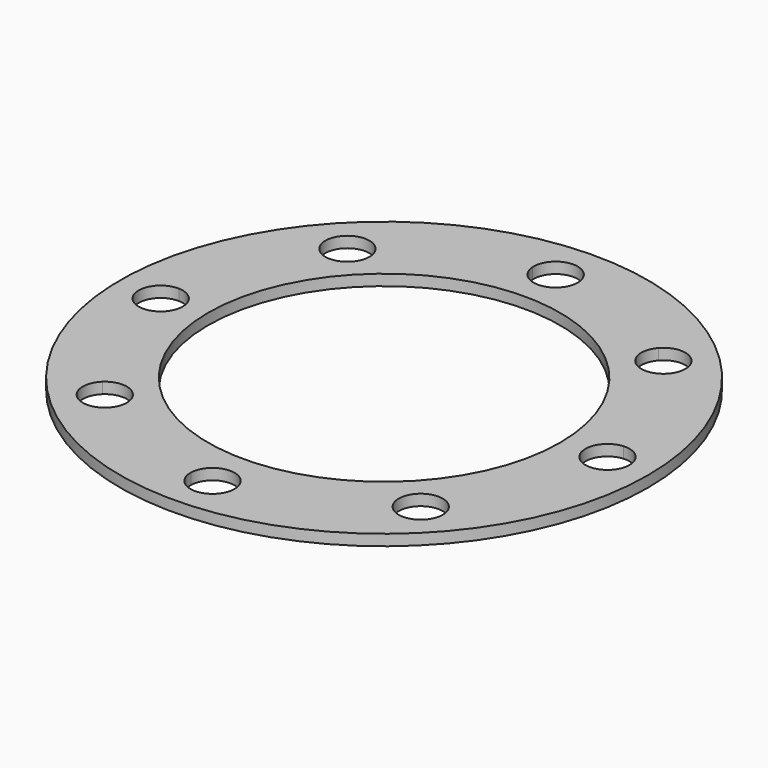
from build123d import *

# Parameters (mm, degrees)
F0_R     = 120
F1_DEPTH = 5
F0_R_2   = 80
F2_DEPTH = 5


with BuildPart() as f1:
    # F0 (on Top) → F1 (new body)
    with BuildSketch(Plane.XY):
        Circle(F0_R)
        with BuildLine():
            ThreePointArc((76.146291, 64.820848), (91.609258, 40.096681), (99.281886, 11.962742))
            ThreePointArc((99.281886, 11.962742), (106.799943, 9.30097), (109.980254, 1.987158))
            ThreePointArc((109.980254, 1.987158), (106.943933, -5.189692), (99.67882, -8.008298))
            ThreePointArc((99.67882, -8.008298), (93.130163, -36.424892), (78.661831, -61.743959))
            ThreePointArc((78.661831, -61.743959), (81.201294, -65.144284), (82.101848, -69.291583))
            ThreePointArc((82.101848, -69.291583), (75.788988, -78.587012), (64.820848, -76.146291))
            ThreePointArc((64.820848, -76.146291), (40.096681, -91.609258), (11.962742, -99.281886))
            ThreePointArc((11.962742, -99.281886), (11.981052, -99.630856), (11.987158, -99.980254))
            ThreePointArc((11.987158, -99.980254), (1.836424, -109.979118), (-8.008298, -99.67882))
            ThreePointArc((-8.008298, -99.67882), (-36.424892, -93.130163), (-61.743959, -78.661831))
            ThreePointArc((-61.743959, -78.661831), (-76.220741, -79.312033), (-76.146291, -64.820848))
            ThreePointArc((-76.146291, -64.820848), (-91.609258, -40.096681), (-99.281886, -11.962742))
            ThreePointArc((-99.281886, -11.962742), (-109.978279, -2.185874), (-99.67882, 8.008298))
            ThreePointArc((-99.67882, 8.008298), (-93.130163, 36.424892), (-78.661831, 61.743959))
            ThreePointArc((-78.661831, 61.743959), (-79.312033, 76.220741), (-64.820848, 76.146291))
            ThreePointArc((-64.820848, 76.146291), (-40.096681, 91.609258), (-11.962742, 99.281886))
            ThreePointArc((-11.962742, 99.281886), (-2.336555, 109.974148), (8.012842, 99.980254))
            ThreePointArc((8.012842, 99.980254), (8.011706, 99.82952), (8.008298, 99.67882))
            ThreePointArc((8.008298, 99.67882), (36.424892, 93.130163), (61.743959, 78.661831))
            ThreePointArc((61.743959, 78.661831), (72.793279, 81.468711), (79.291583, 72.101848))
            ThreePointArc((79.291583, 72.101848), (78.471645, 68.136189), (76.146291, 64.820848))
        make_face(mode=Mode.SUBTRACT)
    extrude(amount=F1_DEPTH)

    # F0 (on Top) → F2 (join)
    with BuildSketch(Plane.XY):
        with BuildLine():
            ThreePointArc((99.67882, -8.008298), (89.982229, 1.788442), (99.281886, 11.962742))
            ThreePointArc((99.281886, 11.962742), (91.609258, 40.096681), (76.146291, 64.820848))
            ThreePointArc((76.146291, 64.820848), (62.362425, 64.891664), (61.743959, 78.661831))
            ThreePointArc((61.743959, 78.661831), (36.424892, 93.130163), (8.008298, 99.67882))
            ThreePointArc((8.008298, 99.67882), (-1.788442, 89.982229), (-11.962742, 99.281886))
            ThreePointArc((-11.962742, 99.281886), (-40.096681, 91.609258), (-64.820848, 76.146291))
            ThreePointArc((-64.820848, 76.146291), (-62.806419, 72.978722), (-62.101848, 69.291583))
            ThreePointArc((-62.101848, 69.291583), (-67.954549, 60.192137), (-78.661831, 61.743959))
            ThreePointArc((-78.661831, 61.743959), (-93.130163, 36.424892), (-99.67882, 8.008298))
            ThreePointArc((-99.67882, 8.008298), (-92.803404, 4.976522), (-89.980254, -1.987158))
            ThreePointArc((-89.980254, -1.987158), (-92.666442, -8.806847), (-99.281886, -11.962742))
            ThreePointArc((-99.281886, -11.962742), (-91.609258, -40.096681), (-76.146291, -64.820848))
            ThreePointArc((-76.146291, -64.820848), (-65.325923, -62.921786), (-59.291583, -72.101848))
            ThreePointArc((-59.291583, -72.101848), (-59.92472, -75.603545), (-61.743959, -78.661831))
            ThreePointArc((-61.743959, -78.661831), (-36.424892, -93.130163), (-8.008298, -99.67882))
            ThreePointArc((-8.008298, -99.67882), (1.788442, -89.982229), (11.962742, -99.281886))
            ThreePointArc((11.962742, -99.281886), (40.096681, -91.609258), (64.820848, -76.146291))
            ThreePointArc((64.820848, -76.146291), (64.891664, -62.362425), (78.661831, -61.743959))
            ThreePointArc((78.661831, -61.743959), (93.130163, -36.424892), (99.67882, -8.008298))
        make_face()
        Circle(F0_R_2, mode=Mode.SUBTRACT)
    extrude(amount=F2_DEPTH)


solid = f1.part
